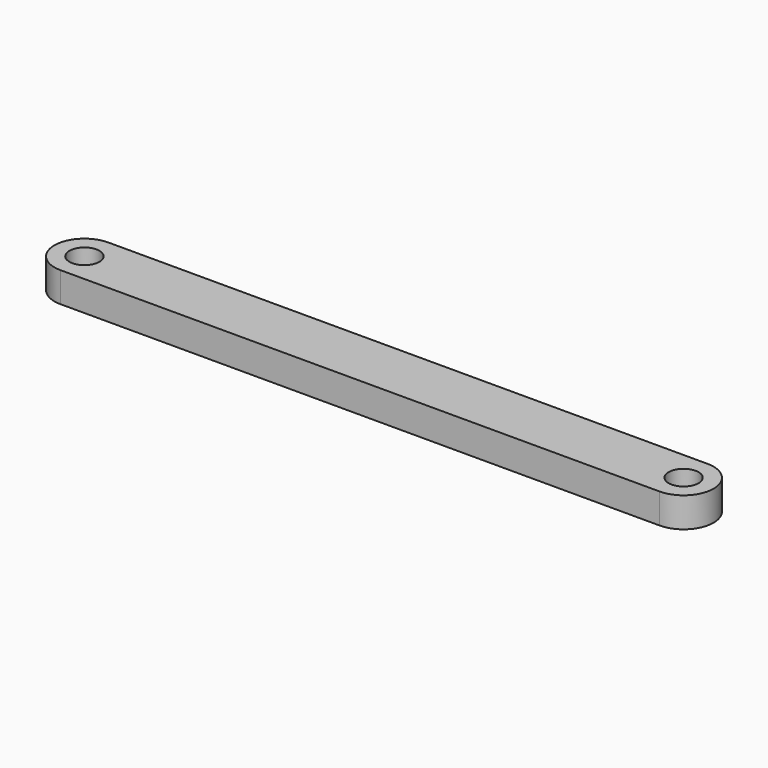
from build123d import *

# Parameters (mm, degrees)
SKETCH_R      = 2.5
EXTRUDE_DEPTH = 5


with BuildPart() as part:
    # Sketch → Extrude (new body)
    with BuildSketch(Plane.XY):
        with BuildLine():
            ThreePointArc((0, 5), (-5, 0), (0, -5))
            Line((100, -5), (0, -5))
            ThreePointArc((100, -5), (105, 0), (100, 5))
            Line((0, 5), (100, 5))
        make_face()
        Circle(SKETCH_R, mode=Mode.SUBTRACT)
        with Locations((100, 0)):
            Circle(SKETCH_R, mode=Mode.SUBTRACT)
    extrude(amount=EXTRUDE_DEPTH)


with BuildPart() as part_1:
    # Extrude placement: moved
    add(part.part.moved(Location((68.762068, 37.732329, -2.433251))))


solid = part_1.part
